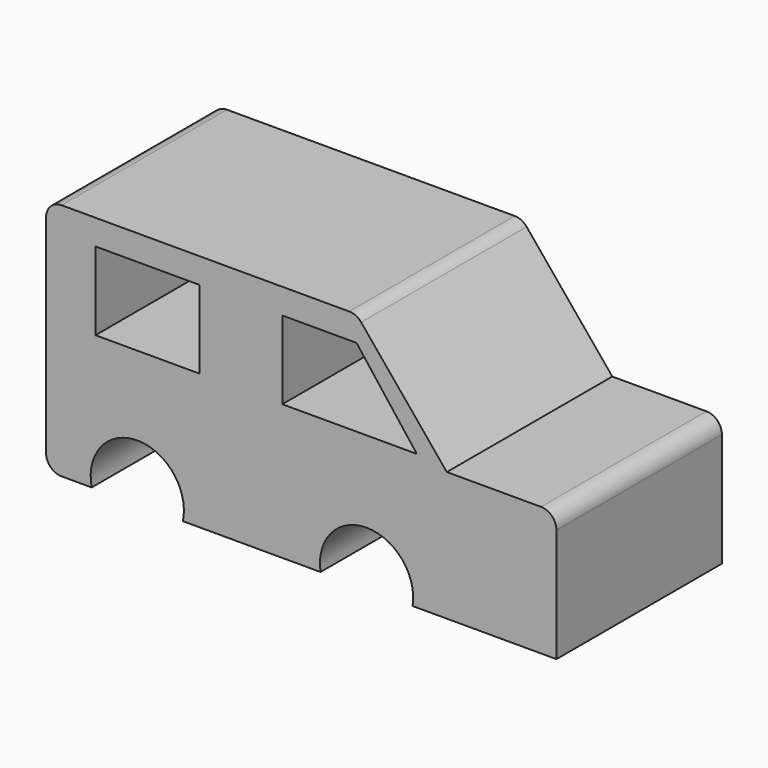
from build123d import *

# Parameters (mm, degrees)
F0_W     = 25.516171
F0_H     = 19.186575
F1_DEPTH = 50.8


with BuildPart() as f1:
    # F0 (on Front) → F1 (new body)
    with BuildSketch(Plane.XZ):
        with BuildLine():
            ThreePointArc((-72.431024, 58.625113), (-75.125101, 57.50919), (-76.241024, 54.815113))
            Line((-76.241024, 54.815113), (-76.241024, 3.81))
            ThreePointArc((-76.241024, 3.81), (-75.125101, 1.115923), (-72.431024, 0))
            Line((-72.431024, 0), (-65.04178, 0))
            ThreePointArc((-65.04178, 0), (-53.842533, 13.818248), (-42.643286, 0))
            Line((-42.643286, 0), (-8.830175, 0))
            ThreePointArc((-8.830175, 0), (2.476757, 13.272119), (13.783689, 0))
            Line((13.783689, 0), (49.104389, 0))
            Line((49.104389, 0), (49.104389, 27.893852))
            ThreePointArc((49.104389, 27.893852), (47.988466, 30.587929), (45.294389, 31.703852))
            Line((45.294389, 31.703852), (22.183126, 31.703852))
            Line((22.183126, 31.703852), (1.142996, 57.237982))
            ThreePointArc((1.142996, 57.237982), (-0.171807, 58.260924), (-1.797379, 58.625113))
            Line((-1.797379, 58.625113), (-72.431024, 58.625113))
        make_face()
        with Locations((-51.349548, 42.823649)):
            Rectangle(F0_W, F0_H, mode=Mode.SUBTRACT)
        Polygon((-18.218089, 33.230361), (-18.218089, 52.416936), (0, 52.416936), (14.814471, 33.230361), align=None, mode=Mode.SUBTRACT)
    extrude(amount=F1_DEPTH)


solid = f1.part
